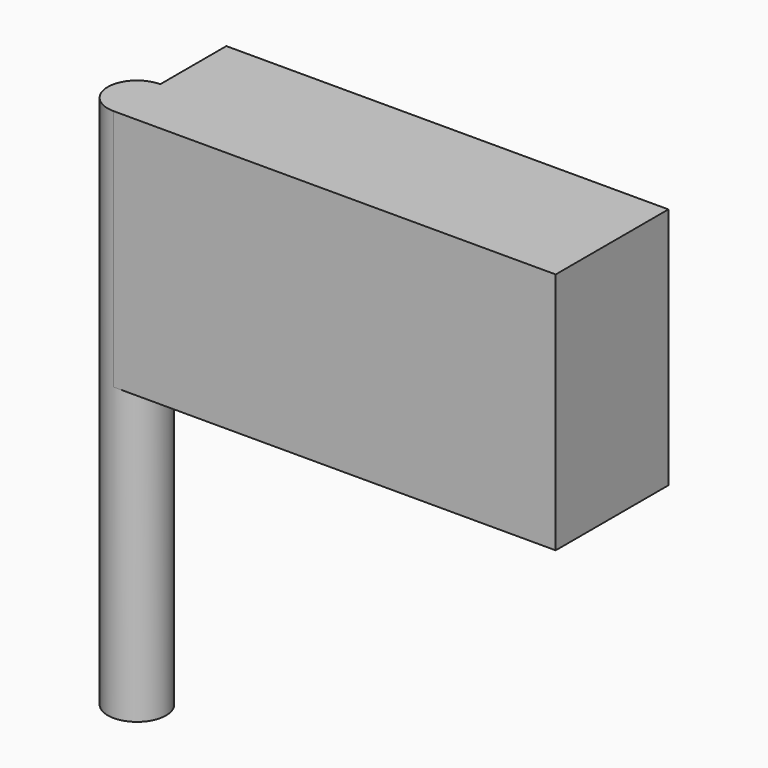
from build123d import *

# Parameters (mm, degrees)
CYLINDER_R     = 3
CYLINDER_DEPTH = 55
BOX_W          = 45.5
BOX_H          = 14.5
BOX_DEPTH      = 25


with BuildPart() as cylinder:
    # Cylinder → Cylinder (new body)
    with BuildSketch(Plane.XY):
        Circle(CYLINDER_R)
    extrude(amount=CYLINDER_DEPTH)


with BuildPart() as fusion:
    # Box → Box (new body)
    with BuildSketch(Plane(origin=(0, -3, 30), x_dir=(1, 0, 0), z_dir=(0, 0, 1))):
        with Locations((22.75, 7.25)):
            Rectangle(BOX_W, BOX_H)
    extrude(amount=BOX_DEPTH)

    # Fusion: union Cylinder
    add(cylinder.part)


solid = fusion.part
